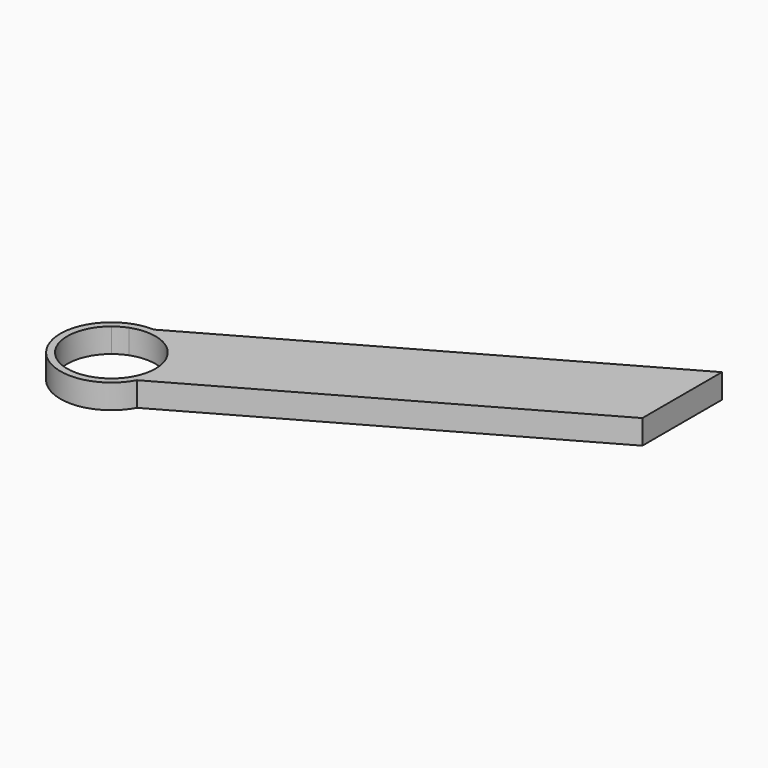
from build123d import *

# Parameters (mm, degrees)
F1_DEPTH = 7


with BuildPart() as f1:
    # F0 (on Top) → F1 (new body)
    with BuildSketch(Plane.XY):
        with BuildLine():
            ThreePointArc((11.013950333, -43.3227563745), (12.2534652904, -46.3520190309), (12.6760278509, -49.5976731181))
            ThreePointArc((12.6760278509, -49.5976731181), (11.5436081746, -54.8347326353), (8.3486797715, -59.1360811692))
            Line((8.3486797715, -59.1360811692), (12.9223209509, -56.5546419063))
            ThreePointArc((12.9223209509, -56.5546419063), (14.2308491604, -53.1849737262), (14.6760278509, -49.5976731181))
            ThreePointArc((14.6760278509, -49.5976731181), (14.1878219864, -45.8438083413), (12.7556852478, -42.3396921772))
            Line((12.7556852478, -42.3396921772), (11.013950333, -43.3227563745))
        make_face()
        with BuildLine():
            ThreePointArc((-4.3802724447, -37.7025104296), (4.3472073452, -37.6903866777), (11.013950333, -43.3227563745))
            Line((11.013950333, -43.3227563745), (12.7556852478, -42.3396921772))
            ThreePointArc((12.7556852478, -42.3396921772), (7.6057300665, -37.0462324185), (0.5297543163, -34.9312095415))
            Line((0.5297543163, -34.9312095415), (-4.3802724447, -37.7025104296))
        make_face()
        with BuildLine():
            Line((12.9223209509, -56.5546419063), (8.3486797715, -59.1360811692))
            ThreePointArc((8.3486797715, -59.1360811692), (-9.7202647257, -57.7338967961), (-7.9198073974, -39.7002829134))
            ThreePointArc((-7.9198073974, -39.7002829134), (-6.2306311682, -38.5586098734), (-4.3802724447, -37.7025104296))
            Line((-4.3802724447, -37.7025104296), (0.5297543163, -34.9312095415))
            ThreePointArc((0.5297543163, -34.9312095415), (-12.7331374397, -56.8951387344), (12.9223209509, -56.5546419063))
        make_face()
        with BuildLine():
            ThreePointArc((0.5297543163, -34.9312095415), (7.6057300665, -37.0462324185), (12.7556852478, -42.3396921772))
            Line((12.7556852478, -42.3396921772), (113.1224855781, 14.3090016955))
            Line((113.1224855781, 14.3090016955), (113.1224855781, 28.618003391))
            Line((113.1224855781, 28.618003391), (0.5297543163, -34.9312095415))
        make_face()
        with BuildLine():
            Line((113.1224855781, 14.3090016955), (12.7556852478, -42.3396921772))
            ThreePointArc((12.7556852478, -42.3396921772), (14.1878219864, -45.8438083413), (14.6760278509, -49.5976731181))
            ThreePointArc((14.6760278509, -49.5976731181), (14.2308491604, -53.1849737262), (12.9223209509, -56.5546419063))
            Line((12.9223209509, -56.5546419063), (113.1224855781, 0))
            Line((113.1224855781, 0), (113.1224855781, 14.3090016955))
        make_face()
    extrude(amount=F1_DEPTH)


solid = f1.part
